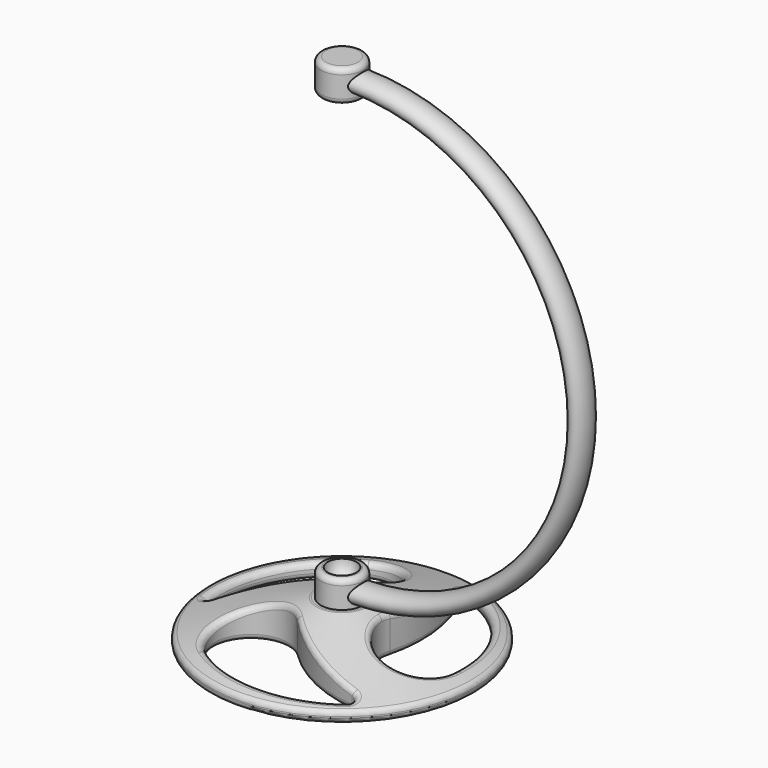
from build123d import *

# Parameters (mm, degrees)
POCKET_DEPTH         = 150.043529
POLARPATTERN_COUNT   = 3
FILLET004_R          = 1
FILLET005_R          = 1
SKETCH006_W          = 2.5
SKETCH006_H          = 8
FILLET003_R          = 1
FILLET001_R          = 1
FILLET002_R          = 1
BODY_PLACEMENT_ANGLE = 180
FILLET_R             = 1


with BuildPart() as base_plate:
    # Sketch004 → Revolution002 (revolve)
    with BuildSketch(Plane.XZ):
        Polygon((2.65, -8), (2.65, 0), (4.65, 0), (24.95, -6), (24.95, -8), align=None)
    revolve(axis=Axis((0, 0, 0), (0, 0, 1)))

    # Sketch005 → Pocket (cut, through all)
    with BuildSketch(Plane.XY):
        with BuildLine():
            ThreePointArc((-10.000527, 18.563598), (-19.772158, 9.217519), (-22.155677, -4.092356))
            ThreePointArc((-22.155677, -4.092356), (-21.331968, -5.00542), (-20.178994, -4.577828))
            ThreePointArc((-5.249361, 5.826015), (-13.613795, 1.915055), (-20.178994, -4.577828))
            ThreePointArc((-5.249361, 5.826015), (-0.649253, 14.796766), (-10.000527, 18.563598))
        make_face()
    pocket = extrude(amount=-POCKET_DEPTH, mode=Mode.SUBTRACT)

    # PolarPattern: Pocket ×3 about axis
    polarpattern_axis = Axis((0, 0, 0), (0, 0, 1))
    for i in range(1, POLARPATTERN_COUNT):
        add(pocket.rotate(polarpattern_axis, i * 360 / POLARPATTERN_COUNT), mode=Mode.SUBTRACT)

    # Fillet004
    fillet004_edges = [base_plate.edges().sort_by_distance(p)[0] for p in [
        (23.032502, 0, -5.433252),
        (21.098123, -0.31068, -4.86219),
        (17.378315, -6.182155, -4.077395),
        (8.357059, -3.513368, -1.305089),
        (6.047983, 0, -0.413197),
        (-4.65, 0, 0),
        (7.508836, 0.82518, -0.858337),
        (8.462917, 10.86113, -2.695268),
        (6.320515, 20.965474, -5.09778),
        (17.702934, 12.777693, -5.078607),
        (-24.95, 0, -6),
        (-1.581854, 8.318798, -1.128432),
        (-13.637473, 1.898536, -2.695268),
        (-3.335254, 18.14114, -4.077395),
        (-21.316891, -5.009011, -5.09778),
        (-19.772143, 9.217546, -5.073444),
        (-6.413364, -5.529325, -1.128432),
        (5.174556, -12.759666, -2.695268),
        (-14.043061, -11.958984, -4.077395),
        (14.996376, -15.956463, -5.09778),
        (1.903442, -21.731951, -5.073444),
    ]]
    fillet(fillet004_edges, radius=FILLET004_R)

    # Fillet005
    fillet005_edges = [base_plate.edges().sort_by_distance(p)[0] for p in [
        (-24.95, 0, -8),
        (-12.489748, -7.960652, -8),
        (5.148411, -12.74742, -8),
        (1.903473, -21.73195, -8),
        (15.000805, -15.971316, -8),
        (13.139002, -6.836113, -8),
        (17.868684, 12.514431, -8),
        (6.331163, 20.976736, -8),
        (8.465384, 10.832365, -8),
        (-0.649253, 14.796766, -8),
        (-13.613795, 1.915055, -8),
        (-19.772158, 9.217519, -8),
        (-21.331968, -5.00542, -8),
        (-2.65, 0, -8),
    ]]
    fillet(fillet005_edges, radius=FILLET005_R)


with BuildPart() as base_plate_1:
    # Body003 placement: moved
    add(base_plate.part.moved(Location((0, 0, -2))))


with BuildPart() as pin:
    # Sketch006 → Revolution003 (revolve)
    with BuildSketch(Plane.XZ):
        with Locations((1.25, -6)):
            Rectangle(SKETCH006_W, SKETCH006_H)
    revolve(axis=Axis((0, 0, 0), (0, 0, 1)))

    # Fillet003
    fillet003_edges = [pin.edges().sort_by_distance(p)[0] for p in [
        (-2.5, 0, -10),
    ]]
    fillet(fillet003_edges, radius=FILLET003_R)


with BuildPart() as top_socket:
    # Sketch → Revolution (revolve)
    with BuildSketch(Plane.XZ):
        with BuildLine():
            Line((0, -3), (4, -3))
            Line((4, -3), (4, 3))
            Line((4, 3), (2.7, 3))
            ThreePointArc((0, 0), (1.97132, 0.940812), (2.7, 3))
            Line((0, 0), (0, -3))
        make_face()
    revolve(axis=Axis((0, 0, 0), (0, 0, 1)))

    # Fillet001
    fillet001_edges = [top_socket.edges().sort_by_distance(p)[0] for p in [
        (-4, 0, 3),
    ]]
    fillet(fillet001_edges, radius=FILLET001_R)

    # Fillet002
    fillet002_edges = [top_socket.edges().sort_by_distance(p)[0] for p in [
        (-4, 0, -3),
    ]]
    fillet(fillet002_edges, radius=FILLET002_R)


with BuildPart() as top_socket_1:
    # Body placement: moved
    add(top_socket.part.moved(Location((0, 0, 84.5))).rotate(Axis((0, 0, 84.5), (0, 1, 0)), BODY_PLACEMENT_ANGLE))


with BuildPart() as bottom_socket:
    # Sketch001 → Revolution001 (revolve)
    with BuildSketch(Plane.XZ):
        with BuildLine():
            Line((0, 0), (4, 0))
            Line((4, 0), (4, 5))
            Line((4, 5), (2.7, 5))
            ThreePointArc((0, 2), (1.97132, 2.940812), (2.7, 5))
            Line((0, 2), (0, 0))
        make_face()
    revolve(axis=Axis((0, 0, 0), (0, 0, 1)))

    # Fillet
    fillet_edges = [bottom_socket.edges().sort_by_distance(p)[0] for p in [
        (-4, 0, 5),
    ]]
    fillet(fillet_edges, radius=FILLET_R)


with BuildPart() as bottom_socket_1:
    # Body001 placement: moved
    add(bottom_socket.part.moved(Location((0, 0, -2))))


with BuildPart() as arm001:
    # AdditivePipe: sweep along a path in Sketch002
    with BuildLine(Plane.XZ) as additivepipe_path:
        ThreePointArc((0, 0), (42.048438, 42.25), (0, 84.5))
    # Sketch003 → AdditivePipe (sweep)
    with BuildSketch(Plane.YZ):
        with BuildLine():
            add(Edge.make_bspline(
                [(2.5, 0), (2.5, 3.031089), (-1.25, 1.515544), (-5, 0), (-1.25, -1.515544), (2.5, -3.031089), (2.5, 0)],
                knots=[0, 0, 0, 2.094395, 2.094395, 4.18879, 4.18879, 6.283185, 6.283185, 6.283185], degree=2, weights=[1, 0.5, 1, 0.5, 1, 0.5, 1]))
        make_face()
    sweep(path=additivepipe_path.line)


with BuildPart() as arm001_1:
    # Body002 placement: moved
    add(arm001.part.moved(Location((3, 0, 0))))

    # Fusion: union pin, top socket, bottom socket
    add(pin.part)
    add(top_socket_1.part)
    add(bottom_socket_1.part)


solid = Compound([base_plate_1.part, arm001_1.part])
